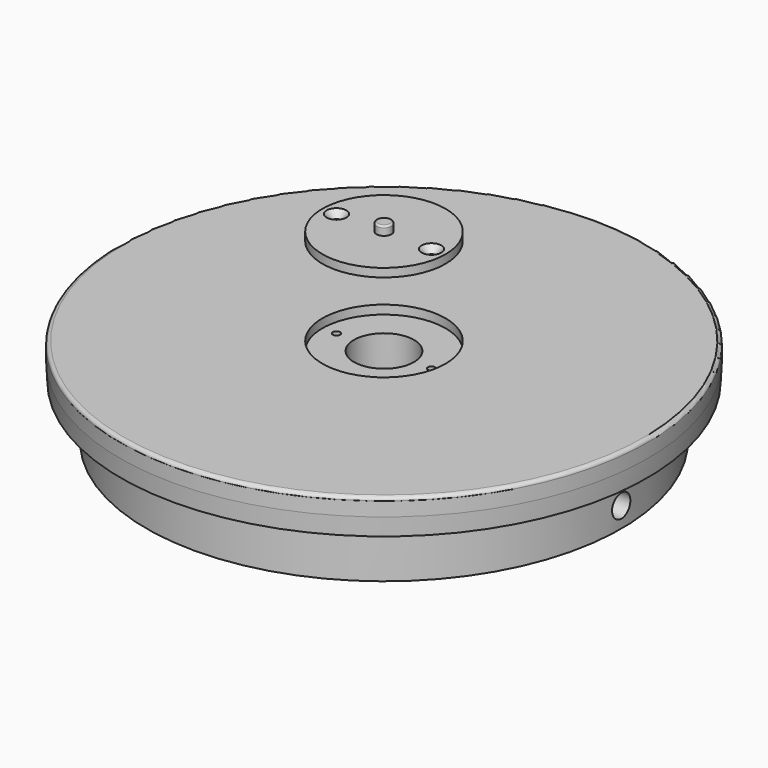
from build123d import *

# Parameters (mm, degrees)
F3_D            = 34.12998
F3_CBORE_D      = 38.1
F3_CBORE_DEPTH  = 6
F6_R            = 6.5
F7_DEPTH        = 15
F8_R            = 2
F10_R           = 35
F11_DEPTH       = 5
F13_R           = 35
F14_DEPTH       = 4.8
F15_R           = 4.25
F16_DEPTH       = 5
F19_D           = 4.1
F19_DEPTH       = 25
F19_CSINK_D     = 11.2
F19_CSINK_ANGLE = 90
F19_TIP         = 1.231764269
F20_D           = 4.1
F20_DEPTH       = 25
F20_TIP         = 1.231764269
F21_R           = 1


with BuildPart() as f1:
    # F0 (on Right) → F1 (revolve)
    with BuildSketch(Plane.YZ):
        Polygon((150, 20), (0, 20), (0, -30), (135, -30), (135, 0), (149.5, 0), (150, 10), align=None)
    revolve(axis=Axis((0, 0, -5), (0, 0, 1)))

    # F3 (through all)
    with Locations(Plane(origin=(0, 0, -30), x_dir=(1, 0, 0), z_dir=(0, 0, -1))):
        with Locations((0, 0)):
            CounterBoreHole(F3_D / 2, F3_CBORE_D / 2, F3_CBORE_DEPTH)

    # F6 (on line) → F7 (cut)
    with BuildSketch(Plane.YZ.offset(135)):
        with Locations((0, -18.5)):
            Circle(F6_R)
    extrude(amount=-F7_DEPTH, mode=Mode.SUBTRACT)

    # F8
    f8_edges = [f1.edges().sort_by_distance(p)[0] for p in [
        (0, -150, 20),
    ]]
    fillet(f8_edges, radius=F8_R)

    # F10 (on offset) → F11 (cut)
    with BuildSketch(Plane.XY.offset(20)):
        Circle(F10_R)
    extrude(amount=-F11_DEPTH, mode=Mode.SUBTRACT)

    # F20
    with Locations(Plane.XY.offset(15)):
        with Locations((-27, 0), (27, 0)):
            Hole(F20_D / 2, depth=F20_DEPTH)
            with Locations((0, 0, -(F20_DEPTH + F20_TIP / 2))):  # 118° drill point
                Cone(0, F20_D / 2, F20_TIP, mode=Mode.SUBTRACT)


with BuildPart() as f14:
    # F13 (on offset) → F14 (new body)
    with BuildSketch(Plane.XY.offset(70)):
        Circle(F13_R)
    extrude(amount=F14_DEPTH)

    # F15 (on face) → F16 (join)
    with BuildSketch(Plane.XY.offset(74.8)):
        Circle(F15_R)
    extrude(amount=F16_DEPTH)

    # F19
    with Locations(Plane.XY.offset(74.8)):
        with Locations((-27, 0), (27, 0)):
            CounterSinkHole(F19_D / 2, F19_CSINK_D / 2, depth=F19_DEPTH, counter_sink_angle=F19_CSINK_ANGLE)
            with Locations((0, 0, -(F19_DEPTH + F19_TIP / 2))):  # 118° drill point
                Cone(0, F19_D / 2, F19_TIP, mode=Mode.SUBTRACT)

    # F21
    f21_edges = [f14.edges().sort_by_distance(p)[0] for p in [
        (-4.25, 0, 79.8),
    ]]
    fillet(f21_edges, radius=F21_R)


solid = Compound([f1.part, f14.part])
